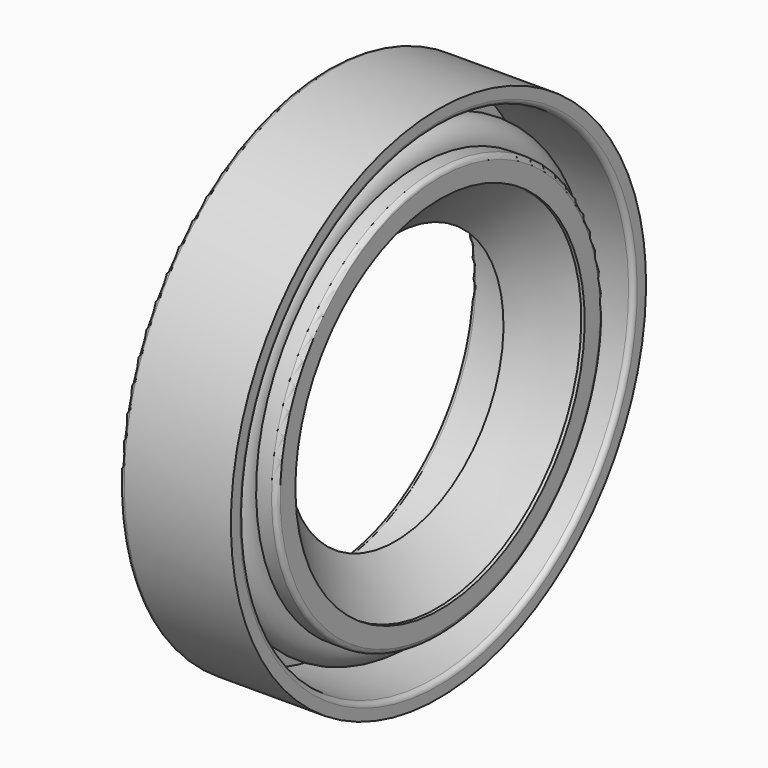
from build123d import *


with BuildPart() as f1:
    # F0 (on Front) → F1 (revolve)
    with BuildSketch(Plane.XZ):
        with BuildLine():
            Line((7, 15.605832), (7, 16.302998))
            Line((7, 16.302998), (0.3, 16.302998))
            ThreePointArc((0.3, 16.302998), (0.087868, 16.21513), (0, 16.002998))
            Line((0, 16.002998), (0, 11.602998))
            ThreePointArc((0, 11.602998), (0.087868, 11.390866), (0.3, 11.302998))
            Line((0.3, 11.302998), (3.139638, 11.302998))
            Line((3.139638, 11.302998), (4.28677, 8.5))
            Line((4.28677, 8.5), (6.885437, 11.359398))
            Line((6.885437, 11.359398), (7.098592, 11.359398))
            Line((7.098592, 11.359398), (7.098592, 12.559398))
            ThreePointArc((7.098592, 12.559398), (7.010724, 12.77153), (6.798592, 12.859398))
            Line((6.798592, 12.859398), (5.830117, 12.859398))
            ThreePointArc((5.830117, 12.859398), (4.484877, 14.204637), (3.139638, 12.859398))
            Line((3.139638, 12.859398), (1, 12.859398))
            Line((1, 12.859398), (1, 15.359398))
            Line((1, 15.359398), (6.69718, 15.305845))
            ThreePointArc((6.69718, 15.305845), (6.911133, 15.392705), (7, 15.605832))
        make_face()
    revolve(axis=Axis((-12.718309, 0, 0), (-1, 0, 0)))


solid = f1.part
